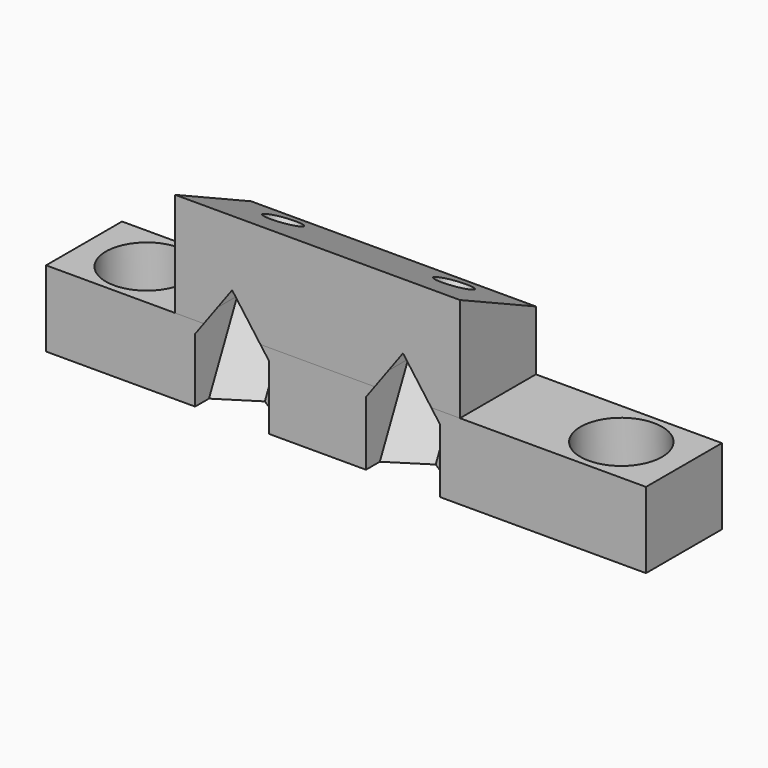
from build123d import *

# Parameters (mm, degrees)
F0_R      = 1.651
F1_DEPTH  = 5.08
F2_R      = 2.7305
F3_DEPTH  = 3.81
F5_DEPTH  = 57.15
F6_W      = 17.145
F6_H      = 6.9596
F6_W_2    = 20.955
F7_DEPTH  = 6.35
F9_W      = 8.509
F9_H      = 5.08
F10_DEPTH = 7.621
F11_R     = 1.143
F12_DEPTH = 10.9125832328
F14_DEPTH = 10.16


with BuildPart() as f1:
    # F0 (on Top) → F1 (new body)
    with BuildSketch(Plane.XY):
        Polygon((-28.575, -3.175), (28.575, -3.175), (28.575, 4.445), (22.225, 4.445), (22.225, 3.175), (-22.225, 3.175), (-22.225, 4.445), (-28.575, 4.445), align=None)
        with Locations((-15.875, 0)):
            Circle(F0_R, mode=Mode.SUBTRACT)
        with Locations((15.875, 0)):
            Circle(F0_R, mode=Mode.SUBTRACT)
    extrude(amount=F1_DEPTH)

    # F2 (on face) → F3 (cut)
    with BuildSketch(Plane.XY.offset(5.08)):
        with Locations((-15.875, 0)):
            Circle(F2_R)
        with Locations((15.875, 0)):
            Circle(F2_R)
    extrude(amount=-F3_DEPTH, mode=Mode.SUBTRACT)

    # F9 (on face) → F10 (cut, through all)
    with BuildSketch(Plane.XZ.offset(3.175)):
        with Locations((-24.3205, 2.54)):
            Rectangle(F9_W, F9_H)
        with Locations((24.3205, 2.54)):
            Rectangle(F9_W, F9_H)
    extrude(amount=-F10_DEPTH, mode=Mode.SUBTRACT)


with BuildPart() as f5:
    # F4 (on face) → F5 (new body)
    with BuildSketch(Plane.YZ.offset(28.575)):
        Polygon((-3.175, 12.0396), (-3.175, 5.08), (3.175, 5.08), (3.175, 9.0785463707), align=None)
    extrude(amount=-F5_DEPTH)

    # F6 (on face) → F7 (cut, through all)
    with BuildSketch(Plane.XZ.offset(3.175)):
        with Locations((-20.0025, 8.5598)):
            Rectangle(F6_W, F6_H)
        with Locations((18.0975, 8.5598)):
            Rectangle(F6_W_2, F6_H)
    extrude(amount=-F7_DEPTH, mode=Mode.SUBTRACT)


with BuildPart() as f12_tool:
    # F11 (on face) → F12 (new body, through all)
    with BuildSketch(Plane(origin=(0, 4.0443596691, 8.6731572993), x_dir=(1, 0, 0), z_dir=(0, 0.4226182617, 0.906307787))):
        with Locations((-7.62, -3.2571735458)):
            Circle(F11_R)
        with Locations((3.81, -3.2571735458)):
            Circle(F11_R)
    extrude(amount=-F12_DEPTH)


with BuildPart() as f1_1:
    add(f1.part)

    # F12: cut by f12_tool
    add(f12_tool.part, mode=Mode.SUBTRACT)


with BuildPart() as f5_1:
    add(f5.part)

    # F12: cut by f12_tool
    add(f12_tool.part, mode=Mode.SUBTRACT)


with BuildPart() as f14_tool:
    # F13 (on offset) → F14 (new body)
    with BuildSketch(Plane(origin=(0, -1.322892255, -2.836951596), x_dir=(1, 0, 0), z_dir=(0, 0.4226182617, 0.906307787))):
        Polygon((-5.1435, -4.6869814874), (-5.1435, -1.8273656042), (-7.62, -0.3975576625), (-10.0965, -1.8273656042), (-10.0965, -4.6869814874), (-7.62, -6.1167894291), align=None)
        Polygon((6.2865, -1.8273656042), (3.81, -0.3975576625), (1.3335, -1.8273656042), (1.3335, -4.6869814874), (3.81, -6.1167894291), (6.2865, -4.6869814874), align=None)
    extrude(amount=F14_DEPTH)


with BuildPart() as f1_2:
    add(f1_1.part)

    # F14: cut by f14_tool
    add(f14_tool.part, mode=Mode.SUBTRACT)


with BuildPart() as f5_2:
    add(f5_1.part)

    # F14: cut by f14_tool
    add(f14_tool.part, mode=Mode.SUBTRACT)


solid = Compound([f1_2.part, f5_2.part])
